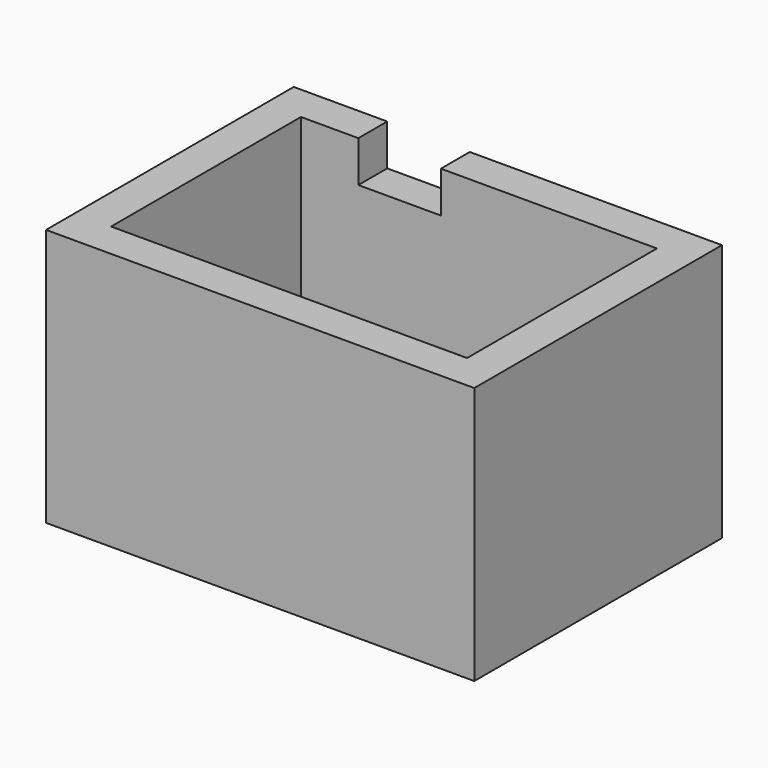
from build123d import *

# Parameters (mm, degrees)
F0_W     = 83
F0_H     = 60
F0_W_2   = 69
F0_H_2   = 46
F1_DEPTH = 50
F2_W     = 16
F2_H     = 7
F3_DEPTH = 8


with BuildPart() as f1:
    # F0 (on Top) → F1 (new body)
    with BuildSketch(Plane.XY):
        Rectangle(F0_W, F0_H)
        Rectangle(F0_W_2, F0_H_2, mode=Mode.SUBTRACT)
    extrude(amount=F1_DEPTH)

    # F2 (on face) → F3 (cut)
    with BuildSketch(Plane.XY.offset(50)):
        with Locations((-15.374865, 26.5)):
            Rectangle(F2_W, F2_H)
    extrude(amount=-F3_DEPTH, mode=Mode.SUBTRACT)


solid = f1.part
